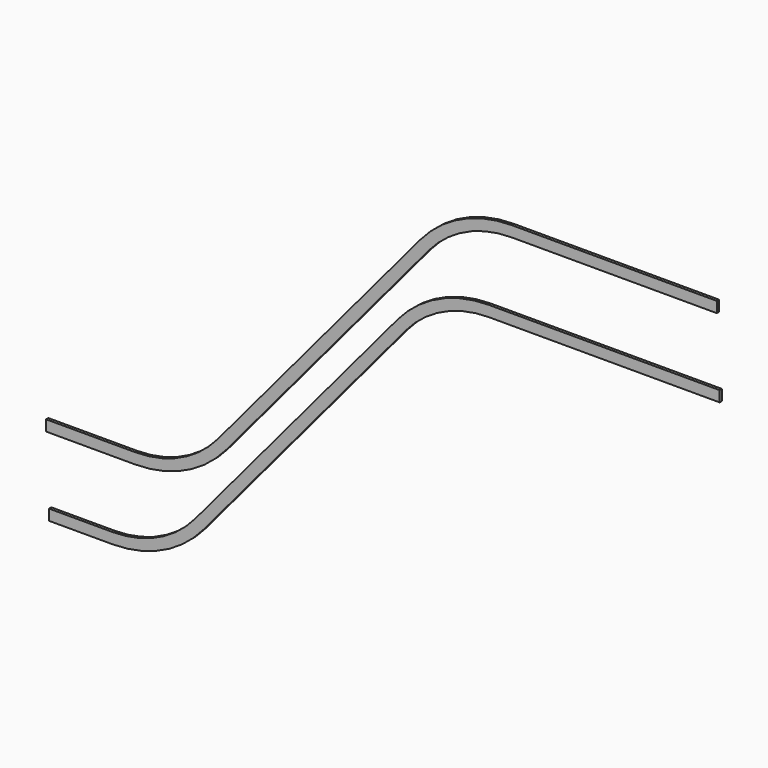
from build123d import *

# Parameters (mm, degrees)
F1_DEPTH = 10


with BuildPart() as f1:
    # F0 (on Front) → F1 (new body)
    with BuildSketch(Plane.XZ):
        with BuildLine():
            Line((1052.909969, 1052.182435), (1866.386906, 1052.182435))
            Line((1866.386906, 1052.182435), (1866.386906, 1090.182435))
            Line((1866.386906, 1090.182435), (1052.909969, 1090.182435))
            ThreePointArc((1052.909969, 1090.182435), (875.832917, 1050.925398), (731.937347, 940.510444))
            Line((731.937347, 940.510444), (18.88517, 90.727949))
            ThreePointArc((18.88517, 90.727949), (-111.960205, -9.673238), (-272.977763, -45.369971))
            Line((-272.977763, -45.369971), (-495.9547, -45.369971))
            Line((-495.9547, -45.369971), (-495.9547, -83.369971))
            Line((-495.9547, -83.369971), (-272.977763, -83.369971))
            ThreePointArc((-272.977763, -83.369971), (-95.900711, -44.112934), (47.994859, 66.30202))
            Line((47.994859, 66.30202), (761.047036, 916.084514))
            ThreePointArc((761.047036, 916.084514), (891.892411, 1016.485702), (1052.909969, 1052.182435))
        make_face()
        with BuildLine():
            Line((1132.909969, 1325.682435), (1856.386906, 1325.682435))
            Line((1856.386906, 1325.682435), (1856.386906, 1363.682435))
            Line((1856.386906, 1363.682435), (1132.909969, 1363.682435))
            ThreePointArc((1132.909969, 1363.682435), (955.832917, 1324.425398), (811.937347, 1214.010444))
            Line((811.937347, 1214.010444), (98.88517, 364.227949))
            ThreePointArc((98.88517, 364.227949), (-31.960205, 263.826762), (-192.977763, 228.130029))
            Line((-192.977763, 228.130029), (-506.4547, 228.130029))
            Line((-506.4547, 228.130029), (-506.4547, 190.130029))
            Line((-506.4547, 190.130029), (-192.977763, 190.130029))
            ThreePointArc((-192.977763, 190.130029), (-15.900711, 229.387066), (127.994859, 339.80202))
            Line((127.994859, 339.80202), (841.047036, 1189.584514))
            ThreePointArc((841.047036, 1189.584514), (971.892411, 1289.985702), (1132.909969, 1325.682435))
        make_face()
    extrude(amount=F1_DEPTH)


solid = f1.part
